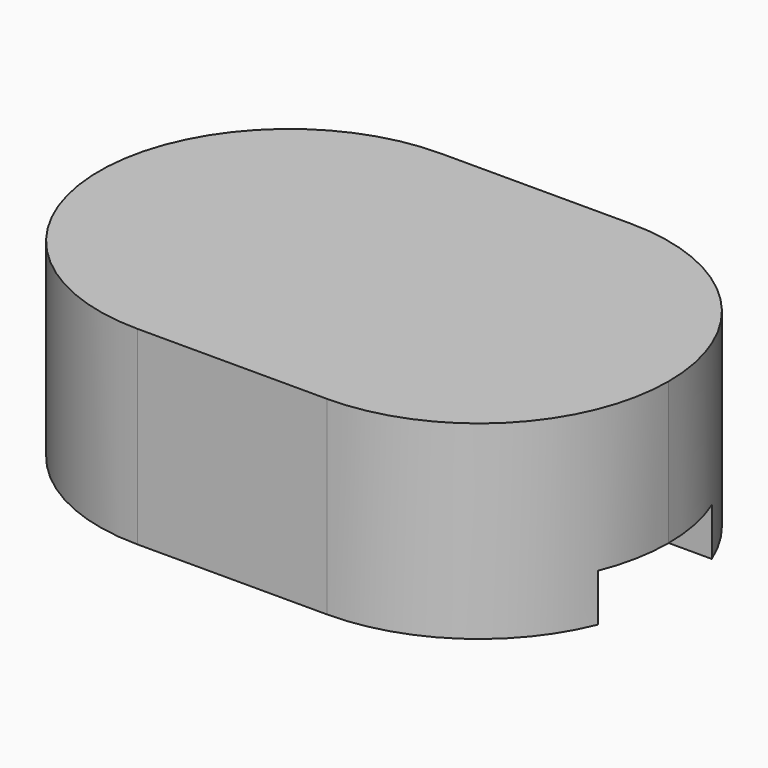
from build123d import *

# Parameters (mm, degrees)
F1_DEPTH = 12.7
F3_DEPTH = 3.175


with BuildPart() as f1:
    # F0 (on Top) → F1 (new body)
    with BuildSketch(Plane.XY):
        with BuildLine():
            Line((0, 0), (0, 12.7))
            ThreePointArc((0, 12.7), (-12.7, 0), (0, -12.7))
            Line((0, -12.7), (0, 0))
        make_face()
        with BuildLine():
            Line((12.7, 0), (0, 0))
            ThreePointArc((0, 0), (1.701477, -6.35), (6.35, -10.998523))
            ThreePointArc((6.35, -10.998523), (10.998523, -6.35), (12.7, 0))
        make_face()
        with BuildLine():
            Line((0, 0), (0, -12.7))
            ThreePointArc((0, -12.7), (3.287002, -12.267258), (6.35, -10.998523))
            ThreePointArc((6.35, -10.998523), (1.701477, -6.35), (0, 0))
        make_face()
        with BuildLine():
            ThreePointArc((6.35, 10.998523), (3.287002, 12.267258), (0, 12.7))
            Line((0, 12.7), (0, 0))
            ThreePointArc((0, 0), (1.701477, 6.35), (6.35, 10.998523))
        make_face()
        with BuildLine():
            ThreePointArc((12.7, 0), (10.998523, 6.35), (6.35, 10.998523))
            ThreePointArc((6.35, 10.998523), (1.701477, 6.35), (0, 0))
            Line((0, 0), (12.7, 0))
        make_face()
        with BuildLine():
            ThreePointArc((12.7, 12.7), (9.412998, 12.267258), (6.35, 10.998523))
            ThreePointArc((6.35, 10.998523), (10.998523, 6.35), (12.7, 0))
            Line((12.7, 0), (12.7, 12.7))
        make_face()
        with BuildLine():
            ThreePointArc((25.4, 0), (21.680256, 8.980256), (12.7, 12.7))
            Line((12.7, 12.7), (12.7, 0))
            Line((12.7, 0), (12.7, -12.7))
            ThreePointArc((12.7, -12.7), (21.680256, -8.980256), (25.4, 0))
        make_face()
        with BuildLine():
            ThreePointArc((6.35, -10.998523), (3.287002, -12.267258), (0, -12.7))
            Line((0, -12.7), (12.7, -12.7))
            ThreePointArc((12.7, -12.7), (9.412998, -12.267258), (6.35, -10.998523))
        make_face()
        with BuildLine():
            Line((12.7, 12.7), (0, 12.7))
            ThreePointArc((0, 12.7), (3.287002, 12.267258), (6.35, 10.998523))
            ThreePointArc((6.35, 10.998523), (9.412998, 12.267258), (12.7, 12.7))
        make_face()
        with BuildLine():
            ThreePointArc((12.7, 0), (10.998523, -6.35), (6.35, -10.998523))
            ThreePointArc((6.35, -10.998523), (9.412998, -12.267258), (12.7, -12.7))
            Line((12.7, -12.7), (12.7, 0))
        make_face()
    extrude(amount=F1_DEPTH)

    # F2 (on Top) → F3 (cut)
    with BuildSketch(Plane.XY):
        Polygon((0, 4.7625), (0, 0), (0, -4.7625), (25.4, -4.7625), (25.4, 4.7625), align=None)
    extrude(amount=F3_DEPTH, mode=Mode.SUBTRACT)


solid = f1.part
